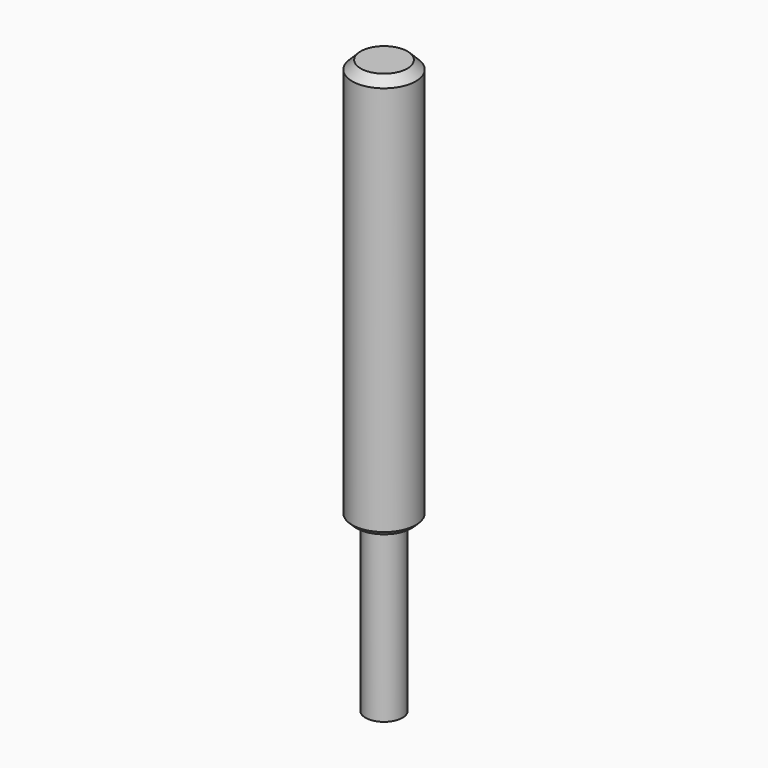
from build123d import *

# Parameters (mm, degrees)
F0_R     = 5.5372
F1_DEPTH = 50.8
F2_R     = 9.525
F3_DEPTH = 120.65
F4_SIZE  = 2.54
F5_SIZE  = 1.27


with BuildPart() as f1:
    # F0 (on Top) → F1 (new body)
    with BuildSketch(Plane.XY):
        Circle(F0_R)
    extrude(amount=F1_DEPTH)

    # F2 (on face) → F3 (join)
    with BuildSketch(Plane.XY.offset(50.8)):
        Circle(F2_R)
    extrude(amount=F3_DEPTH)

    # F4
    f4_edges = [f1.edges().sort_by_distance(p)[0] for p in [
        (-9.525, 0, 171.45),
    ]]
    chamfer(f4_edges, length=F4_SIZE)

    # F5
    f5_edges = [f1.edges().sort_by_distance(p)[0] for p in [
        (-9.525, 0, 50.8),
    ]]
    chamfer(f5_edges, length=F5_SIZE)


solid = f1.part
